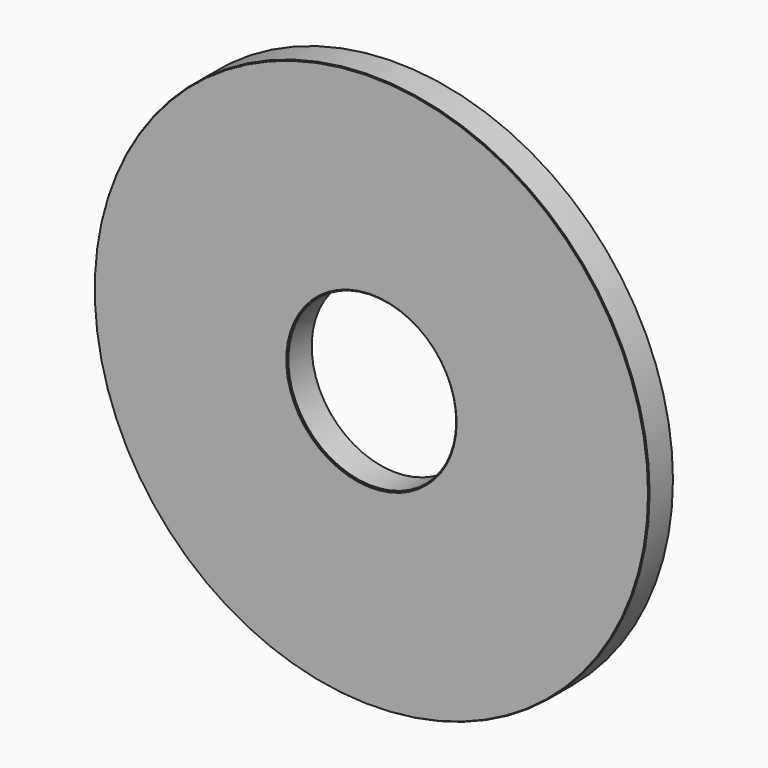
from build123d import *

# Parameters (mm, degrees)
F0_R     = 380
F0_R_2   = 340
F0_R_3   = 155
F0_R_4   = 115
F1_DEPTH = 40
F3_W     = 40
F3_H     = 191.372557
F4_DEPTH = 40
F6_COUNT = 8
F7_R     = 379.064224
F7_R_2   = 116.715261
F8_DEPTH = 1.5


with BuildPart() as f1:
    # F0 (on Front) → F1 (new body)
    with BuildSketch(Plane.XZ):
        Circle(F0_R)
        Circle(F0_R_2, mode=Mode.SUBTRACT)
        Circle(F0_R_3)
        Circle(F0_R_4, mode=Mode.SUBTRACT)
    extrude(amount=F1_DEPTH)


with BuildPart() as f4:
    # F3 (on face) → F4 (new body)
    with BuildSketch(Plane.XZ.offset(40)):
        with Locations((0.590742, 243.803799)):
            Rectangle(F3_W, F3_H)
    extrude(amount=-F4_DEPTH)


with BuildPart() as f6_1:
    # F6: instance of F4
    add(f4.part.rotate(Axis((0, 30.879453, 0), (0, -1, 0)), 1 * 360 / F6_COUNT))


with BuildPart() as f6_2:
    # F6: instance of F4
    add(f4.part.rotate(Axis((0, 30.879453, 0), (0, -1, 0)), 2 * 360 / F6_COUNT))


with BuildPart() as f6_3:
    # F6: instance of F4
    add(f4.part.rotate(Axis((0, 30.879453, 0), (0, -1, 0)), 3 * 360 / F6_COUNT))


with BuildPart() as f6_4:
    # F6: instance of F4
    add(f4.part.rotate(Axis((0, 30.879453, 0), (0, -1, 0)), 4 * 360 / F6_COUNT))


with BuildPart() as f6_5:
    # F6: instance of F4
    add(f4.part.rotate(Axis((0, 30.879453, 0), (0, -1, 0)), 5 * 360 / F6_COUNT))


with BuildPart() as f6_6:
    # F6: instance of F4
    add(f4.part.rotate(Axis((0, 30.879453, 0), (0, -1, 0)), 6 * 360 / F6_COUNT))


with BuildPart() as f6_7:
    # F6: instance of F4
    add(f4.part.rotate(Axis((0, 30.879453, 0), (0, -1, 0)), 7 * 360 / F6_COUNT))


with BuildPart() as f8:
    # F7 (on face) → F8 (new body)
    with BuildSketch(Plane.XZ.offset(40)):
        Circle(F7_R)
        Circle(F7_R_2, mode=Mode.SUBTRACT)
    extrude(amount=F8_DEPTH)


solid = Compound([f1.part, f4.part, f6_1.part, f6_2.part, f6_3.part, f6_4.part, f6_5.part, f6_6.part, f6_7.part, f8.part])
